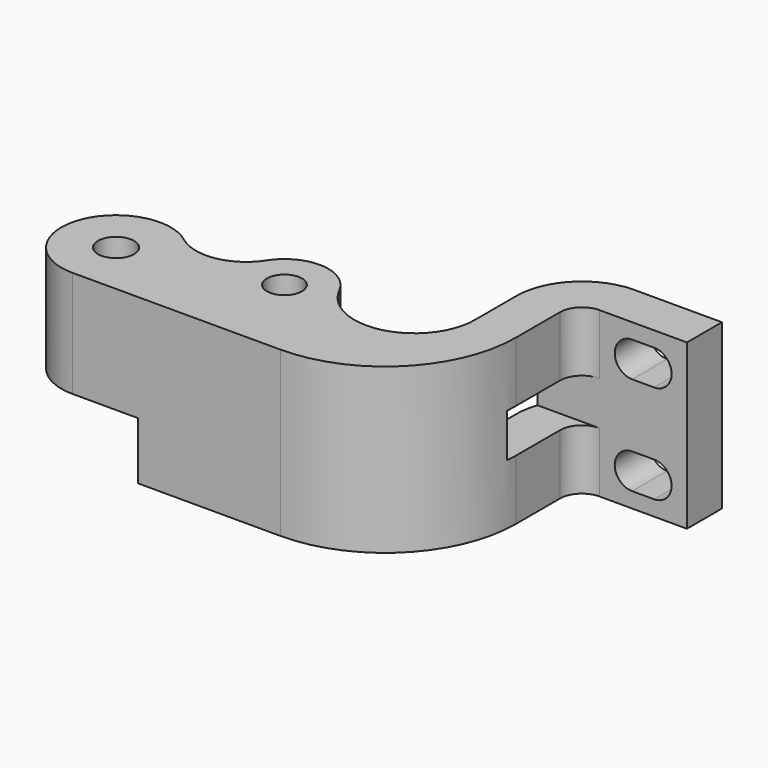
from build123d import *

# Parameters (mm, degrees)
CYLINDER_R           = 6.5
CYLINDER_DEPTH       = 5
PAD001_DEPTH         = 5.25
SKETCH_R             = 1.6
SKETCH_R_2           = 1.65
PAD_DEPTH            = 15
POCKET_DEPTH         = 5
SKETCH003_W          = 8
SKETCH003_H          = 4
POCKET001_DEPTH      = 36.001
POCKET001_DEPTH_BACK = -10.001
CYLINDER001_R        = 1.5
CYLINDER001_DEPTH    = 5
CYLINDER002_R        = 4
CYLINDER002_DEPTH    = 5
CHAMFER_SIZE         = 1
SKETCH004_W          = 10
SKETCH004_H          = 5
POCKET002_DEPTH      = 5


with BuildPart() as rodamiento:
    # Cylinder → Cylinder (new body)
    with BuildSketch(Plane(origin=(0, -10, 5), x_dir=(1, 0, 0), z_dir=(0, 0, 1))):
        Circle(CYLINDER_R)
    extrude(amount=CYLINDER_DEPTH)


with BuildPart() as obj1:
    # Sketch001 → Pad001 (new body)
    with BuildSketch(Plane.XY):
        with BuildLine():
            ThreePointArc((-13, -7), (-19, -13.000015), (-12.99997, -19))
            Line((-7, -19), (-12.99997, -19))
            Line((-7, -7), (-7, -19))
            Line((-13, -7), (-7, -7))
        make_face()
    extrude(amount=PAD001_DEPTH)


with BuildPart() as pocket001:
    # Sketch → Pad (new body)
    with BuildSketch(Plane.XY):
        with BuildLine():
            ThreePointArc((-9.975703, -9.018339), (-17.738581, -11.404429), (-13, -18))
            Line((-13, -18), (6.026073, -18))
            ThreePointArc((6.026073, -18), (14.492918, -14.492918), (18, -6.026073))
            Line((18, -6.026073), (18, -1))
            ThreePointArc((20, 1), (18.585786, 0.414214), (18, -1))
            Line((20, 1), (28, 1))
            Line((28, 1), (28, 5))
            Line((28, 5), (19.999992, 5))
            ThreePointArc((19.999992, 5), (15.757346, 3.242627), (14, -1.00003))
            Line((14, -1.00003), (14, -5.748808))
            ThreePointArc((3.577338, -8.210404), (9.762642, -11.10351), (14, -5.748808))
            ThreePointArc((3.577338, -8.210404), (0.210821, -6.00556), (-3.369084, -7.843782))
            ThreePointArc((-9.975703, -9.018339), (-6.415209, -9.877665), (-3.369084, -7.843782))
        make_face()
        with Locations((0, -10)):
            Circle(SKETCH_R, mode=Mode.SUBTRACT)
        with Locations((-13, -13)):
            Circle(SKETCH_R_2, mode=Mode.SUBTRACT)
    extrude(amount=PAD_DEPTH)

    # Cut: cut obj1
    add(obj1.part, mode=Mode.SUBTRACT)

    # Cut001: cut rodamiento
    add(rodamiento.part, mode=Mode.SUBTRACT)

    # Sketch002 → Pocket (cut)
    with BuildSketch(Plane(origin=(0, 5, 0), x_dir=(-1, 0, 0), z_dir=(0, 1, 0))):
        with BuildLine():
            ThreePointArc((-25, 13.6), (-26.6, 12), (-25, 10.4))
            Line((-25, 10.4), (-23, 10.4))
            ThreePointArc((-23, 10.4), (-21.4, 12), (-23, 13.6))
            Line((-25, 13.6), (-23, 13.6))
        make_face()
        with BuildLine():
            ThreePointArc((-25, 4.6), (-26.6, 3), (-25, 1.4))
            Line((-25, 1.4), (-23, 1.4))
            ThreePointArc((-23, 1.4), (-21.4, 3), (-23, 4.6))
            Line((-25, 4.6), (-23, 4.6))
        make_face()
    extrude(amount=-POCKET_DEPTH, mode=Mode.SUBTRACT)

    # Sketch003 → Pocket001 (cut, two sides)
    with BuildSketch(Plane.YZ.offset(18)) as pocket001_sk:
        with Locations((-3, 7.5)):
            Rectangle(SKETCH003_W, SKETCH003_H)
    extrude(amount=-POCKET001_DEPTH, mode=Mode.SUBTRACT)
    extrude(pocket001_sk.sketch, amount=-POCKET001_DEPTH_BACK, mode=Mode.SUBTRACT)


with BuildPart() as cilindro:
    # Cylinder001 → Cylinder001 (new body)
    with BuildSketch(Plane(origin=(0, -10, 5), x_dir=(1, 0, 0), z_dir=(0, 0, 1))):
        Circle(CYLINDER001_R)
    extrude(amount=CYLINDER001_DEPTH)


with BuildPart() as soporte_rodamiento:
    # Cylinder002 → Cylinder002 (new body)
    with BuildSketch(Plane(origin=(0, -10, 5), x_dir=(1, 0, 0), z_dir=(0, 0, 1))):
        Circle(CYLINDER002_R)
    extrude(amount=CYLINDER002_DEPTH)

    # Cut002: cut Cilindro
    add(cilindro.part, mode=Mode.SUBTRACT)

    # Chamfer
    chamfer_edges = [soporte_rodamiento.edges().sort_by_distance(p)[0] for p in [
        (-1.5, -10, 10),
        (-4, -10, 10),
    ]]
    chamfer(chamfer_edges, length=CHAMFER_SIZE)

    # Sketch004 → Pocket002 (cut)
    with BuildSketch(Plane(origin=(0, 0, 5), x_dir=(1, 0, 0), z_dir=(0, 0, -1))):
        with Locations((0, 12.5)):
            Rectangle(SKETCH004_W, SKETCH004_H)
    extrude(amount=-POCKET002_DEPTH, mode=Mode.SUBTRACT)


solid = Compound([pocket001.part, soporte_rodamiento.part])
